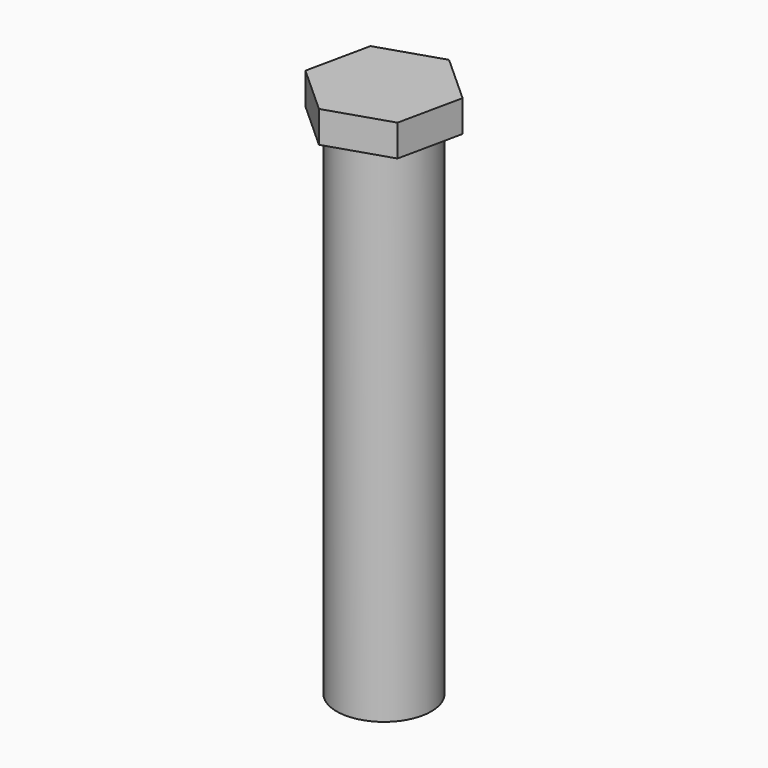
from build123d import *

# Parameters (mm, degrees)
F1_DEPTH = 6.35
F2_R     = 9.525
F3_DEPTH = 101.6


with BuildPart() as f1:
    # F0 (on Top) → F1 (new body)
    with BuildSketch(Plane.XY):
        Polygon((-22.308767, 16.777974), (-34.867812, 12.720437), (-37.633403, -0.184783), (-27.839951, -9.032466), (-15.280906, -4.974928), (-12.515315, 7.930292), align=None)
    extrude(amount=F1_DEPTH)

    # F2 (on face) → F3 (join)
    with BuildSketch(Plane(origin=(0, 0, 0), x_dir=(1, 0, 0), z_dir=(0, 0, -1))):
        with Locations((-25.074359, -3.872754)):
            Circle(F2_R)
    extrude(amount=F3_DEPTH)


solid = f1.part
